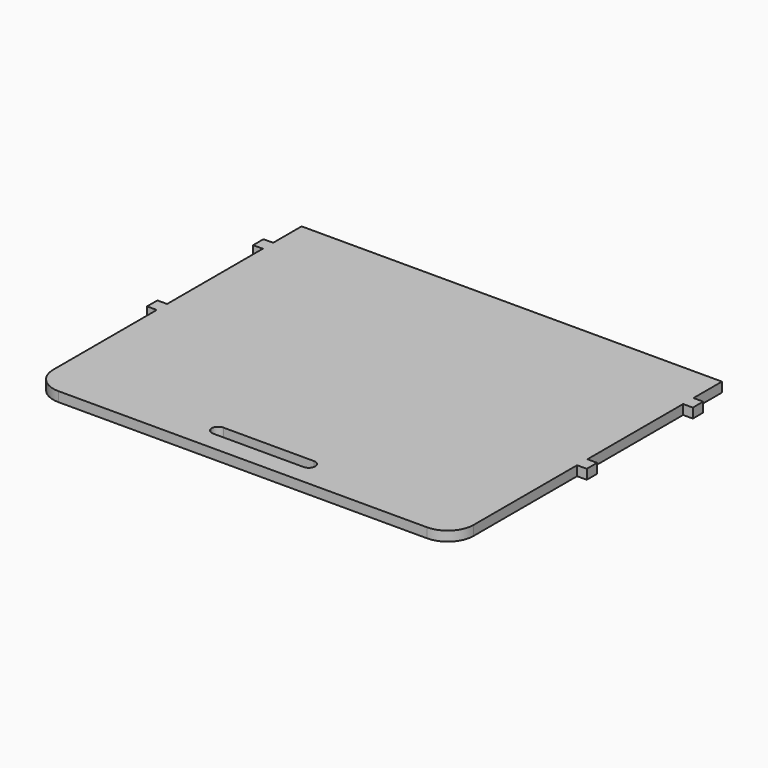
from build123d import *

# Parameters (mm, degrees)
F0_W     = 19.05
F0_H     = 25.4
F1_DEPTH = 19.05


with BuildPart() as f1:
    # F0 (on Top) → F1 (new body)
    with BuildSketch(Plane.XY):
        with BuildLine():
            Line((414.764641, 224.573665), (-410.735359, 224.573665))
            Line((-410.735359, 224.573665), (-410.735359, 154.723665))
            Line((-410.735359, 154.723665), (-410.735359, 129.323665))
            Line((-410.735359, 129.323665), (-410.735359, -105.626335))
            Line((-410.735359, -105.626335), (-410.735359, -131.026335))
            Line((-410.735359, -131.026335), (-410.735359, -385.026335))
            ThreePointArc((-410.735359, -385.026335), (-395.856384, -420.94736), (-359.935359, -435.826335))
            Line((-359.935359, -435.826335), (363.964641, -435.826335))
            ThreePointArc((363.964641, -435.826335), (399.885665, -420.94736), (414.764641, -385.026335))
            Line((414.764641, -385.026335), (414.764641, -131.026335))
            Line((414.764641, -131.026335), (414.764641, -105.626335))
            Line((414.764641, -105.626335), (414.764641, 129.323665))
            Line((414.764641, 129.323665), (414.764641, 154.723665))
            Line((414.764641, 154.723665), (414.764641, 224.573665))
        make_face()
        with BuildLine():
            Line((90.914641, -397.726335), (-86.885359, -397.726335))
            ThreePointArc((-86.885359, -397.726335), (-95.865615, -394.006591), (-99.585359, -385.026335))
            ThreePointArc((-99.585359, -385.026335), (-95.865615, -376.046079), (-86.885359, -372.326335))
            Line((-86.885359, -372.326335), (90.914641, -372.326335))
            ThreePointArc((90.914641, -372.326335), (99.894897, -376.046079), (103.614641, -385.026335))
            ThreePointArc((103.614641, -385.026335), (99.894897, -394.006591), (90.914641, -397.726335))
        make_face(mode=Mode.SUBTRACT)
        with Locations((-420.260359, 142.023665)):
            Rectangle(F0_W, F0_H)
        with Locations((424.289641, 142.023665)):
            Rectangle(F0_W, F0_H)
        with Locations((-420.260359, -118.326335)):
            Rectangle(F0_W, F0_H)
        with Locations((424.289641, -118.326335)):
            Rectangle(F0_W, F0_H)
    extrude(amount=F1_DEPTH)


solid = f1.part
